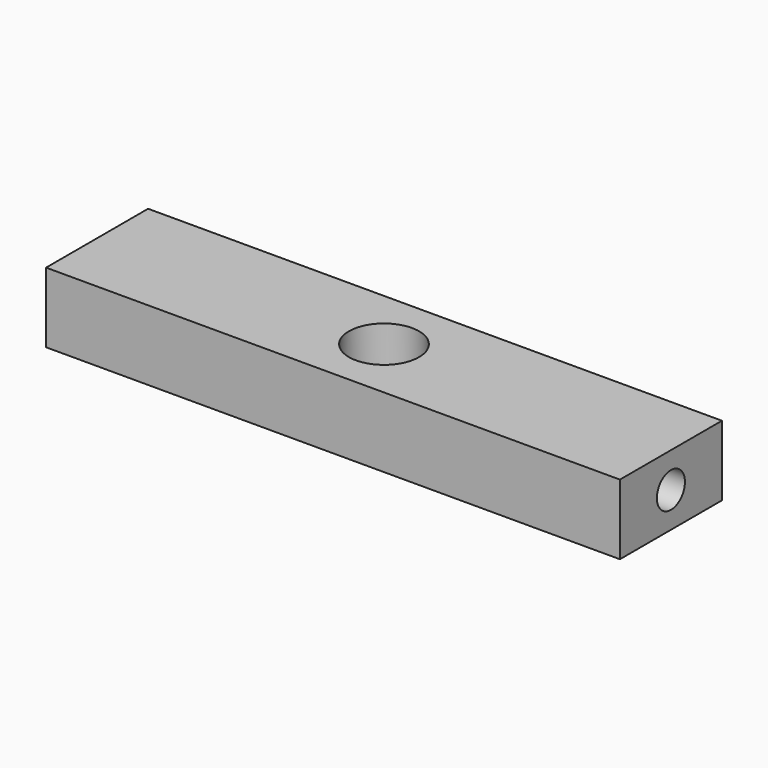
from build123d import *

# Parameters (mm, degrees)
F0_W     = 180
F0_H     = 40
F1_DEPTH = 22
F3_D     = 22
F3_DEPTH = 15
F3_TIP   = 6.6094668093
F5_D     = 11
F5_DEPTH = 12
F5_TIP   = 3.3047334047
F7_D     = 11
F7_DEPTH = 12
F7_TIP   = 3.3047334047
F9_D     = 11
F9_DEPTH = 12
F9_TIP   = 3.3047334047


with BuildPart() as f1:
    # F0 (on Top) → F1 (new body)
    with BuildSketch(Plane.XY):
        Rectangle(F0_W, F0_H)
    extrude(amount=-F1_DEPTH)

    # F3
    with Locations(Plane.XY):
        with Locations((0, 0)):
            Hole(F3_D / 2, depth=F3_DEPTH)
            with Locations((0, 0, -(F3_DEPTH + F3_TIP / 2))):  # 118° drill point
                Cone(0, F3_D / 2, F3_TIP, mode=Mode.SUBTRACT)

    # F5
    with Locations(Plane(origin=(-90, 0, 0), x_dir=(0, -1, 0), z_dir=(-1, 0, 0))):
        with Locations((0, -11)):
            Hole(F5_D / 2, depth=F5_DEPTH)
            with Locations((0, 0, -(F5_DEPTH + F5_TIP / 2))):  # 118° drill point
                Cone(0, F5_D / 2, F5_TIP, mode=Mode.SUBTRACT)

    # F7
    with Locations(Plane.YZ.offset(90)):
        with Locations((0, -11)):
            Hole(F7_D / 2, depth=F7_DEPTH)
            with Locations((0, 0, -(F7_DEPTH + F7_TIP / 2))):  # 118° drill point
                Cone(0, F7_D / 2, F7_TIP, mode=Mode.SUBTRACT)

    # F9
    with Locations(Plane(origin=(0, 20, 0), x_dir=(-1, 0, 0), z_dir=(0, 1, 0))):
        with Locations((-50, -11)):
            Hole(F9_D / 2, depth=F9_DEPTH)
            with Locations((0, 0, -(F9_DEPTH + F9_TIP / 2))):  # 118° drill point
                Cone(0, F9_D / 2, F9_TIP, mode=Mode.SUBTRACT)


solid = f1.part
